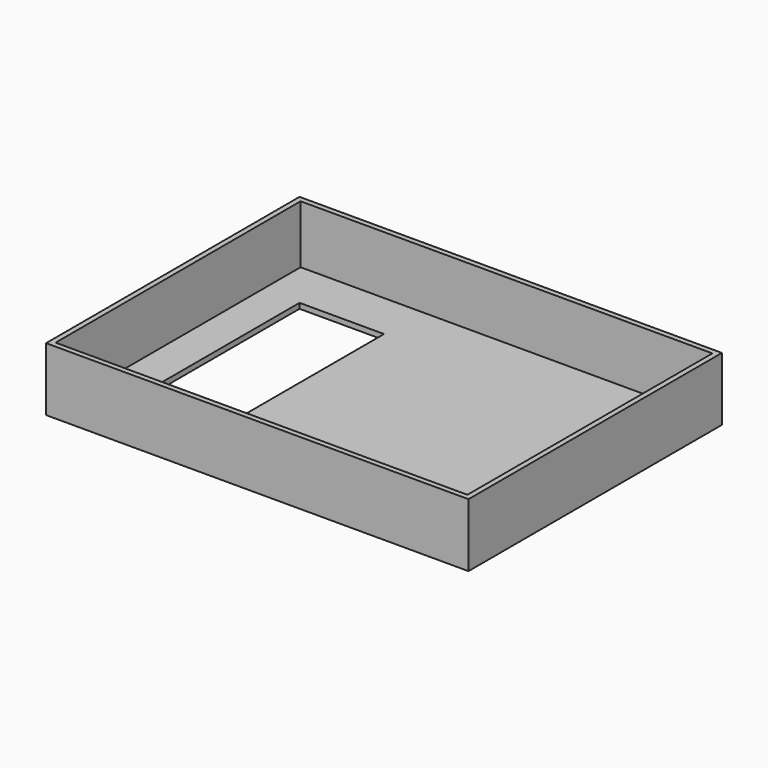
from build123d import *

# Parameters (mm, degrees)
F0_W     = 508
F0_H     = 381
F1_DEPTH = 76.2
F2_W     = 101.6
F2_H     = 254
F3_DEPTH = 76.2
F4_T     = -6.35
F5_W     = 114.3
F5_H     = 266.7
F6_DEPTH = 69.85


with BuildPart() as f1:
    # F0 (on Top) → F1 (new body)
    with BuildSketch(Plane.XY):
        Rectangle(F0_W, F0_H)
    extrude(amount=F1_DEPTH)

    # F2 (on face) → F3 (cut, through all)
    with BuildSketch(Plane.XY.offset(76.2)):
        with Locations((-152.4, 0)):
            Rectangle(F2_W, F2_H)
    extrude(amount=-F3_DEPTH, mode=Mode.SUBTRACT)

    # F4
    f4_openings = [f1.faces().sort_by_distance(p)[0] for p in [
        (23.446154, 0, 76.2),
    ]]
    offset(amount=F4_T, openings=f4_openings)

    # F5 (on face) → F6 (cut)
    with BuildSketch(Plane.XY.offset(76.2)):
        with Locations((-152.4, 0)):
            Rectangle(F5_W, F5_H)
    extrude(amount=-F6_DEPTH, mode=Mode.SUBTRACT)


solid = f1.part
